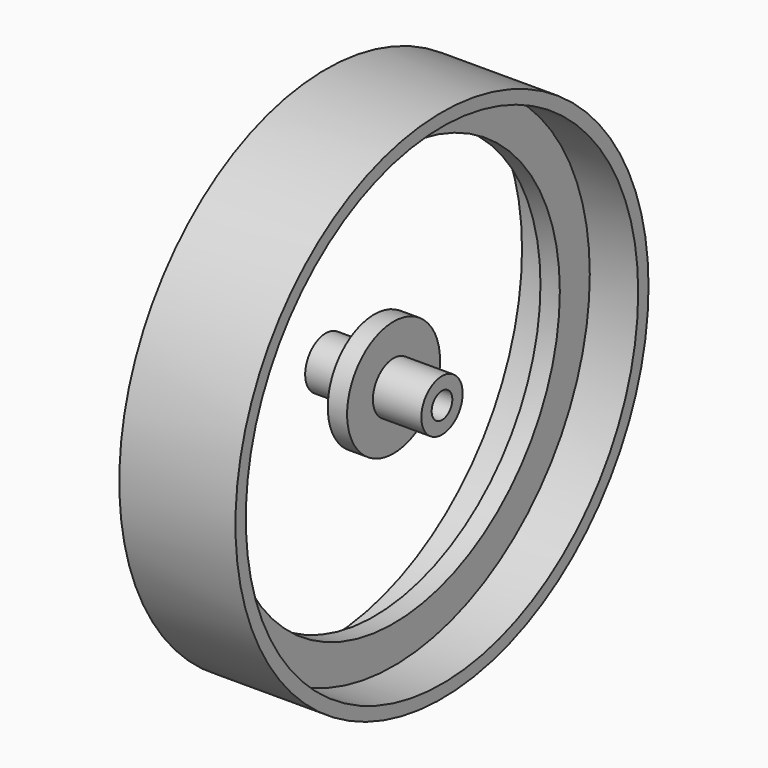
from build123d import *

# Parameters (mm, degrees)
F2_R     = 160.999998
F2_R_2   = 45.000002
F3_DEPTH = 15


with BuildPart() as f1:
    # F0 (on Top) → F1 (revolve)
    with BuildSketch(Plane.XY):
        Polygon((-45, 20), (-45, 10), (45, 10), (45, 20), (7.5, 20), (7.5, 190), (45, 190), (45, 200), (-45, 200), (-45, 190), (-7.5, 190), (-7.5, 20), align=None)
    revolve(axis=Axis((0, 0, 0), (1, 0, 0)))

    # F2 (on Right) → F3 (cut, symmetric)
    with BuildSketch(Plane.YZ):
        Circle(F2_R)
        Circle(F2_R_2, mode=Mode.SUBTRACT)
    extrude(amount=F3_DEPTH, both=True, mode=Mode.SUBTRACT)


solid = f1.part
